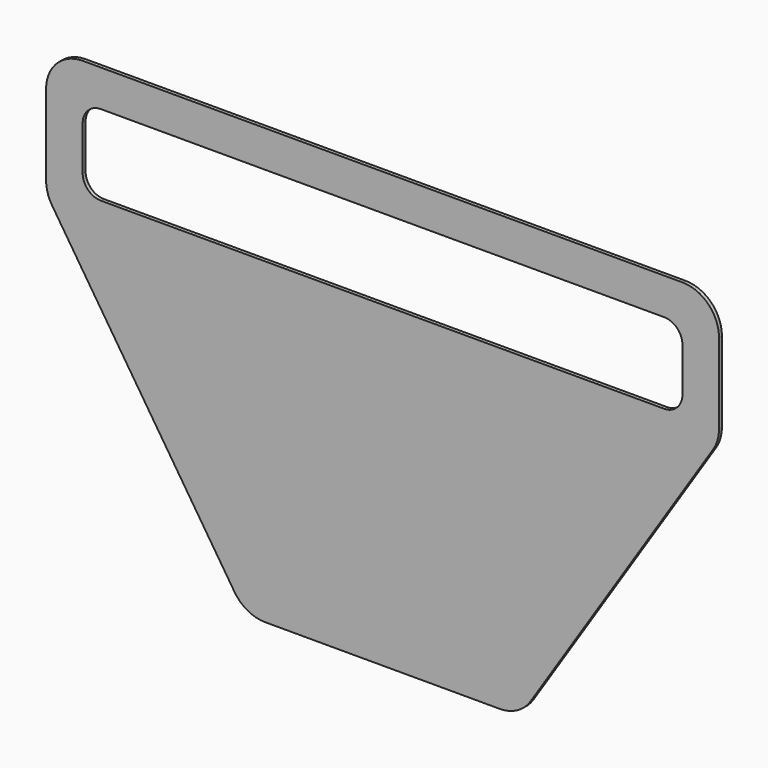
from build123d import *

# Parameters (mm, degrees)
F1_DEPTH = 1
F4_DEPTH = 25


with BuildPart() as f1:
    # F0 (on Front) → F1 (new body)
    with BuildSketch(Plane.XZ):
        with BuildLine():
            Line((-32.070443, 0), (0, 0))
            Line((0, 0), (32.070443, 0))
            ThreePointArc((32.070443, 0), (36.842031, 1.211829), (40.457149, 4.55361))
            Line((40.457149, 4.55361), (90.350609, 81.382801))
            ThreePointArc((90.350609, 81.382801), (91.552101, 83.989038), (91.963904, 86.829192))
            Line((91.963904, 86.829192), (91.963904, 108.867057))
            ThreePointArc((91.963904, 108.867057), (89.034971, 115.938125), (81.963904, 118.867057))
            Line((81.963904, 118.867057), (-81.963904, 118.867057))
            ThreePointArc((-81.963904, 118.867057), (-89.034971, 115.938125), (-91.963904, 108.867057))
            Line((-91.963904, 108.867057), (-91.963904, 86.829192))
            ThreePointArc((-91.963904, 86.829192), (-91.552101, 83.989038), (-90.350609, 81.382801))
            Line((-90.350609, 81.382801), (-40.457149, 4.55361))
            ThreePointArc((-40.457149, 4.55361), (-36.842031, 1.211829), (-32.070443, 0))
        make_face()
    extrude(amount=F1_DEPTH)


with BuildPart() as f2_1:
    # F2: copy of F1
    add(f1.part)


with BuildPart() as f4_tool:
    # F3 (on face) → F4 (new body)
    with BuildSketch(Plane.XZ.offset(1)):
        with BuildLine():
            Line((76.963904, 108.867057), (-76.963904, 108.867057))
            ThreePointArc((-76.963904, 108.867057), (-80.499437, 107.402591), (-81.963904, 103.867057))
            Line((-81.963904, 103.867057), (-81.963904, 91.829192))
            ThreePointArc((-81.963904, 91.829192), (-80.499437, 88.293658), (-76.963904, 86.829192))
            Line((-76.963904, 86.829192), (76.963904, 86.829192))
            ThreePointArc((76.963904, 86.829192), (80.499437, 88.293658), (81.963904, 91.829192))
            Line((81.963904, 91.829192), (81.963904, 103.867057))
            ThreePointArc((81.963904, 103.867057), (80.499437, 107.402591), (76.963904, 108.867057))
        make_face()
    extrude(amount=-F4_DEPTH)


with BuildPart() as f1_1:
    add(f1.part)

    # F4: cut by f4_tool
    add(f4_tool.part, mode=Mode.SUBTRACT)


with BuildPart() as f2_1_1:
    add(f2_1.part)

    # F4: cut by f4_tool
    add(f4_tool.part, mode=Mode.SUBTRACT)


solid = f1_1.part
